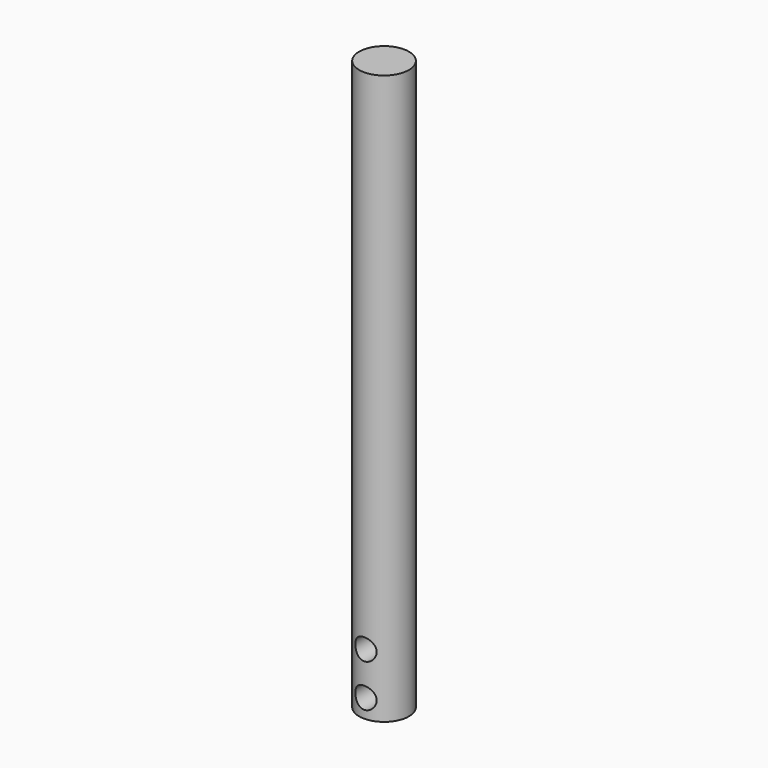
from build123d import *

# Parameters (mm, degrees)
F0_R          = 4.445
F1_DEPTH      = 101.6
F2_R          = 1.905
F3_DEPTH      = 4.446
F3_DEPTH_BACK = 12.7


with BuildPart() as f1:
    # F0 (on Top) → F1 (new body)
    with BuildSketch(Plane.XY):
        Circle(F0_R)
    extrude(amount=F1_DEPTH)

    # F2 (on Front) → F3 (cut, two sides)
    with BuildSketch(Plane.XZ) as f3_sk:
        with Locations((0, 3.302)):
            Circle(F2_R)
        with Locations((0, 10.922)):
            Circle(F2_R)
    extrude(amount=-F3_DEPTH, mode=Mode.SUBTRACT)
    extrude(f3_sk.sketch, amount=F3_DEPTH_BACK, mode=Mode.SUBTRACT)


solid = f1.part
